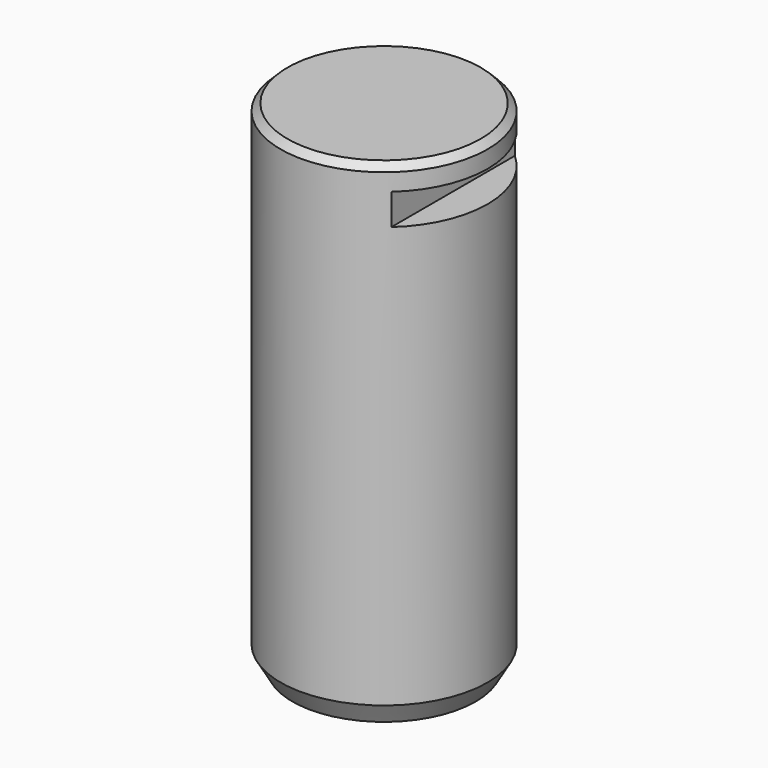
from build123d import *

# Parameters (mm, degrees)
F0_R     = 30
F1_DEPTH = 72
F2_SIZE  = 2
F3_SIZE2 = 3.464102
F3_SIZE  = 6
F4_W     = 15
F4_H     = 9
F5_DEPTH = 50


with BuildPart() as f1:
    # F0 (on Top) → F1 (new body, symmetric)
    with BuildSketch(Plane.XY):
        Circle(F0_R)
    extrude(amount=F1_DEPTH, both=True)

    # F2
    f2_edges = [f1.edges().sort_by_distance(p)[0] for p in [
        (-30, 0, 72),
    ]]
    chamfer(f2_edges, length=F2_SIZE)

    # F3
    f3_edges = [f1.edges().sort_by_distance(p)[0] for p in [
        (-30, 0, -72),
    ]]
    chamfer(f3_edges, length=F3_SIZE, length2=F3_SIZE2)

    # F4 (on Front) → F5 (cut, symmetric)
    with BuildSketch(Plane.XZ):
        with Locations((27.5, 60.5)):
            Rectangle(F4_W, F4_H)
    extrude(amount=F5_DEPTH, both=True, mode=Mode.SUBTRACT)


solid = f1.part
